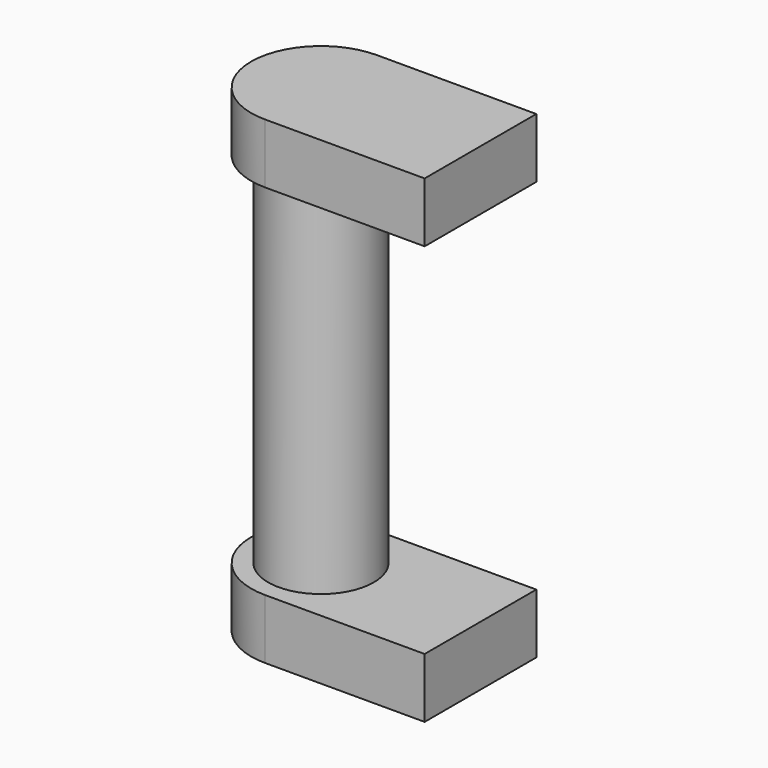
from build123d import *

# Parameters (mm, degrees)
F0_R     = 2.65
F1_DEPTH = 18
F2_R     = 3.5
F3_DEPTH = 3
F4_R     = 3.5
F5_DEPTH = 3
F6_W     = 8
F6_H     = 7
F7_DEPTH = 3
F8_W     = 8
F8_H     = 7
F9_DEPTH = 3


with BuildPart() as f1:
    # F0 (on Top) → F1 (new body)
    with BuildSketch(Plane.XY):
        Circle(F0_R)
    extrude(amount=-F1_DEPTH)

    # F2 (on face) → F3 (join)
    with BuildSketch(Plane.XY):
        Circle(F2_R)
    extrude(amount=F3_DEPTH)

    # F4 (on face) → F5 (join)
    with BuildSketch(Plane(origin=(0, 0, -18), x_dir=(1, 0, 0), z_dir=(0, 0, -1))):
        Circle(F4_R)
    extrude(amount=F5_DEPTH)

    # F6 (on face) → F7 (join)
    with BuildSketch(Plane(origin=(0, 0, -21), x_dir=(1, 0, 0), z_dir=(0, 0, -1))):
        with Locations((4, 0)):
            Rectangle(F6_W, F6_H)
    extrude(amount=-F7_DEPTH)

    # F8 (on face) → F9 (join)
    with BuildSketch(Plane.XY.offset(3)):
        with Locations((4, 0)):
            Rectangle(F8_W, F8_H)
    extrude(amount=-F9_DEPTH)


solid = f1.part
